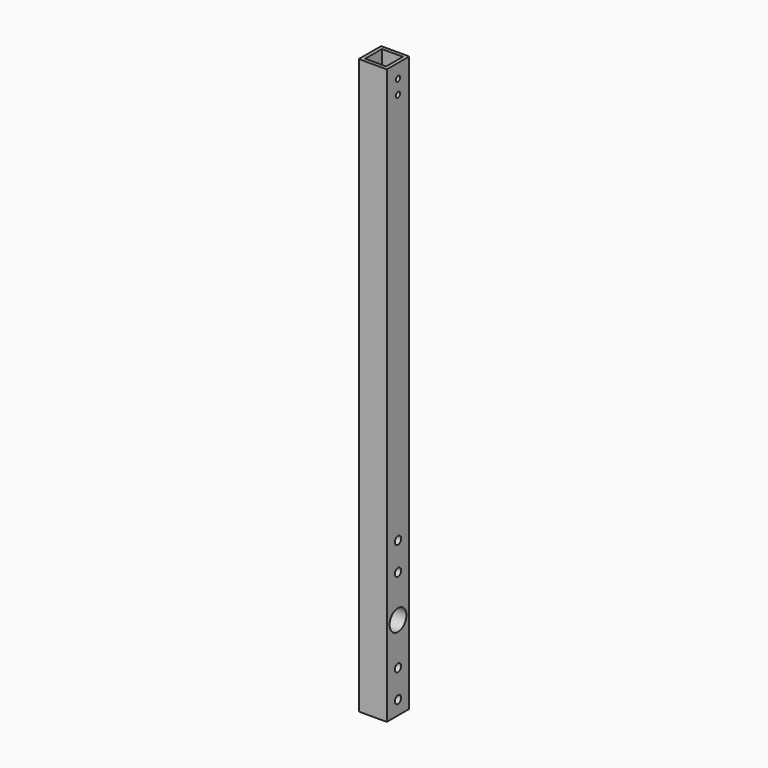
from build123d import *

# Parameters (mm, degrees)
F1_DEPTH = 260.35
F2_R     = 1.190625
F3_DEPTH = 12.701
F4_R     = 1.778
F5_DEPTH = 12.701
F6_W     = 9.525
F6_H     = 9.525
F7_DEPTH = 19.05


with BuildPart() as f1:
    # F0 (on Top) → F1 (new body)
    with BuildSketch(Plane.XY):
        Polygon((-4.7625, -4.7625), (-4.7625, 4.7625), (0, 4.7625), (0, 6.35), (-6.35, 6.35), (-6.35, -6.35), (6.35, -6.35), (6.35, 0), (4.7625, 0), (4.7625, -4.7625), align=None)
        Polygon((0, 6.35), (0, 4.7625), (4.7625, 4.7625), (4.7625, 0), (6.35, 0), (6.35, 6.35), align=None)
        Polygon((0, 4.7625), (-4.7625, 4.7625), (-4.7625, -4.7625), (4.7625, -4.7625), (4.7625, 0), (4.7625, 4.7625), align=None)
    extrude(amount=F1_DEPTH)

    # F2 (on face) → F3 (cut, through all)
    with BuildSketch(Plane.YZ.offset(6.35)):
        with Locations((0, 254)):
            Circle(F2_R)
        with Locations((0, 247.65)):
            Circle(F2_R)
    extrude(amount=-F3_DEPTH, mode=Mode.SUBTRACT)

    # F4 (on face) → F5 (cut, through all)
    with BuildSketch(Plane.YZ.offset(6.35)):
        with BuildLine():
            ThreePointArc((-4.7625, 38.1), (0, 33.3375), (4.7625, 38.1))
            Line((4.7625, 38.1), (-4.7625, 38.1))
        make_face()
        with BuildLine():
            Line((-4.7625, 38.1), (4.7625, 38.1))
            ThreePointArc((4.7625, 38.1), (0, 42.8625), (-4.7625, 38.1))
        make_face()
        with Locations((0, 57.15)):
            Circle(F4_R)
        with Locations((0, 69.85)):
            Circle(F4_R)
        with Locations((0, 19.05)):
            Circle(F4_R)
        with Locations((0, 6.35)):
            Circle(F4_R)
    extrude(amount=-F5_DEPTH, mode=Mode.SUBTRACT)

    # F6 (on face) → F7 (cut)
    with BuildSketch(Plane.XY.offset(260.35)):
        Rectangle(F6_W, F6_H)
    extrude(amount=-F7_DEPTH, mode=Mode.SUBTRACT)


solid = f1.part
